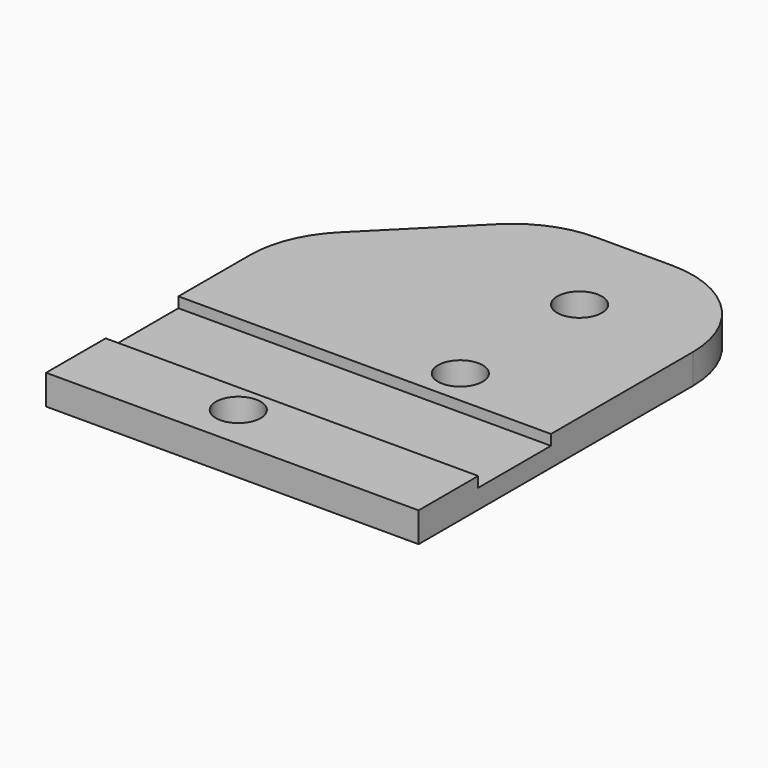
from build123d import *

# Parameters (mm, degrees)
F0_W     = 25
F0_H     = 30
F1_DEPTH = 2
F2_R     = 1.5
F3_DEPTH = 2.001
F4_W     = 25
F4_H     = 6.1
F5_DEPTH = 0.7
F6_SIZE  = 10
F7_R     = 7


with BuildPart() as f1:
    # F0 (on Top) → F1 (new body)
    with BuildSketch(Plane.XY):
        Rectangle(F0_W, F0_H)
    extrude(amount=F1_DEPTH)

    # F2 (on face) → F3 (cut, through all)
    with BuildSketch(Plane.XY.offset(2)):
        with Locations((-2, -12)):
            Circle(F2_R)
        with Locations((4.5, -1.5)):
            Circle(F2_R)
        with Locations((4.5, 8.5)):
            Circle(F2_R)
    extrude(amount=-F3_DEPTH, mode=Mode.SUBTRACT)

    # F4 (on face) → F5 (cut)
    with BuildSketch(Plane.XY.offset(2)):
        with Locations((0, -6.95)):
            Rectangle(F4_W, F4_H)
    extrude(amount=-F5_DEPTH, mode=Mode.SUBTRACT)

    # F6
    f6_edges = [f1.edges().sort_by_distance(p)[0] for p in [
        (-12.5, 15, 1),
    ]]
    chamfer(f6_edges, length=F6_SIZE)

    # F7
    f7_edges = [f1.edges().sort_by_distance(p)[0] for p in [
        (-12.5, 5, 1),
        (-2.5, 15, 1),
        (12.5, 15, 1),
    ]]
    fillet(f7_edges, radius=F7_R)


solid = f1.part
